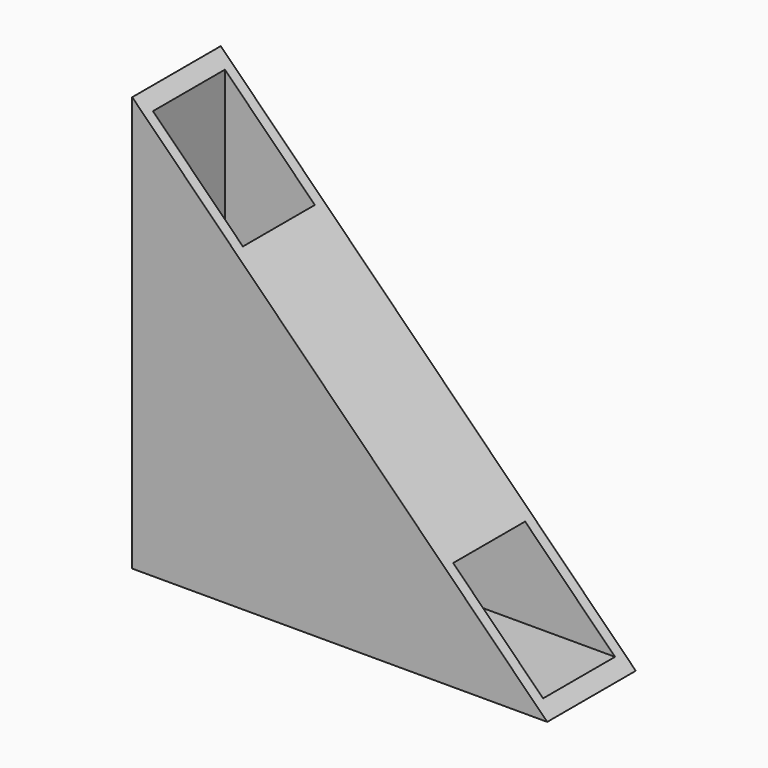
from build123d import *

# Parameters (mm, degrees)
F1_DEPTH = 16
F3_START = -1.5
F2_W     = 13
F2_H     = 49.3902075756
F2_W_2   = 53.9163745879
F2_H_2   = 13
F3_DEPTH = 13


with BuildPart() as f1:
    # F0 (on Front) → F1 (new body)
    with BuildSketch(Plane.XZ):
        Polygon((0, 60), (0, 0), (60, 0), align=None)
    extrude(amount=F1_DEPTH)

    # F2 (on face) → F3 (cut)
    with BuildSketch(Plane(origin=(0, 0, 0), x_dir=(-1, 0, 0), z_dir=(0, 1, 0)).offset(F3_START)):
        with Locations((-8.3, 44.6951037878)):
            Rectangle(F2_W, F2_H)
        with Locations((-46.958187294, 8.3)):
            Rectangle(F2_W_2, F2_H_2)
    extrude(amount=-F3_DEPTH, mode=Mode.SUBTRACT)


solid = f1.part
